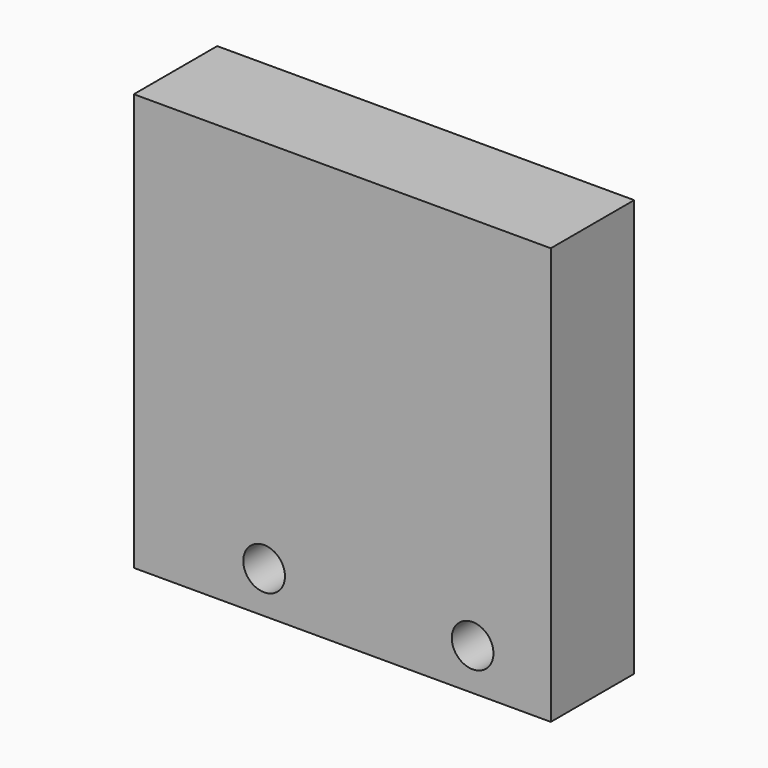
from build123d import *

# Parameters (mm, degrees)
F0_W     = 80
F0_H     = 80
F1_DEPTH = 20
F3_DEPTH = 15
F5_DEPTH = 10
F6_R     = 4
F7_DEPTH = 20.001


with BuildPart() as f1:
    # F0 (on Front) → F1 (new body)
    with BuildSketch(Plane.XZ):
        with Locations((-5, -40)):
            Rectangle(F0_W, F0_H)
    extrude(amount=F1_DEPTH)

    # F2 (on face) → F3 (cut)
    with BuildSketch(Plane(origin=(0, 0, 0), x_dir=(-1, 0, 0), z_dir=(0, 1, 0))):
        with BuildLine():
            ThreePointArc((-26, -56), (-24.242641, -60.242641), (-20, -62))
            Line((-20, -62), (20, -62))
            ThreePointArc((20, -62), (24.242641, -60.242641), (26, -56))
            Line((26, -56), (26, -16))
            ThreePointArc((26, -16), (24.242641, -11.757359), (20, -10))
            Line((20, -10), (-20, -10))
            ThreePointArc((-20, -10), (-24.242641, -11.757359), (-26, -16))
            Line((-26, -16), (-26, -56))
        make_face()
    extrude(amount=-F3_DEPTH, mode=Mode.SUBTRACT)

    # F4 (on face) → F5 (cut)
    with BuildSketch(Plane(origin=(0, 0, 0), x_dir=(-1, 0, 0), z_dir=(0, 1, 0))):
        with BuildLine():
            ThreePointArc((-30, -56), (-27.071068, -63.071068), (-20, -66))
            Line((-20, -66), (20, -66))
            ThreePointArc((20, -66), (27.071068, -63.071068), (30, -56))
            Line((30, -56), (30, -16))
            ThreePointArc((30, -16), (27.071068, -8.928932), (20, -6))
            Line((20, -6), (-20, -6))
            ThreePointArc((-20, -6), (-27.071068, -8.928932), (-30, -16))
            Line((-30, -16), (-30, -56))
        make_face()
    extrude(amount=-F5_DEPTH, mode=Mode.SUBTRACT)

    # F6 (on face) → F7 (cut, through all)
    with BuildSketch(Plane(origin=(0, 0, 0), x_dir=(-1, 0, 0), z_dir=(0, 1, 0))):
        with Locations((-20, -72)):
            Circle(F6_R)
        with Locations((20, -72)):
            Circle(F6_R)
    extrude(amount=-F7_DEPTH, mode=Mode.SUBTRACT)


solid = f1.part
